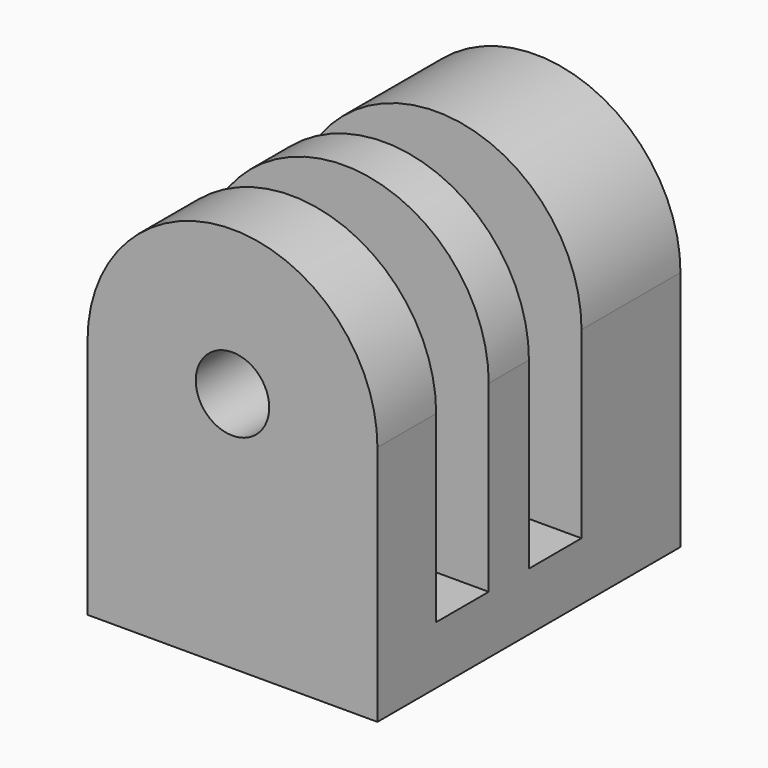
from build123d import *

# Parameters (mm, degrees)
BOX003_W                  = 15
BOX003_H                  = 3.4
BOX003_DEPTH              = 17
ARRAY_Y_COUNT             = 2
ARRAY_Y_PITCH             = 6
CYLINDER002_R             = 2.2
CYLINDER002_DEPTH         = 6
CYLINDER001_R             = 1.9
CYLINDER001_DEPTH         = 15
FUSION001_PLACEMENT_ANGLE = 90
CYLINDER_R                = 7.5
CYLINDER_DEPTH            = 19.6
BOX002_W                  = 15
BOX002_H                  = 19.6
BOX002_DEPTH              = 12.5


with BuildPart() as side_3_extract_cube_array:
    # Box003 → Box003 (new body)
    with BuildSketch(Plane(origin=(-7.5, -7.7, 3), x_dir=(1, 0, 0), z_dir=(0, 0, 1))):
        with Locations((7.5, 1.7)):
            Rectangle(BOX003_W, BOX003_H)
    extrude(amount=BOX003_DEPTH)

    # Array Y: side 3 extract cube array ×2


with BuildPart() as side_3_extract_cube_array_1:
    add(side_3_extract_cube_array.part)
    with Locations(*[(0, i * ARRAY_Y_PITCH, 0) for i in range(1, ARRAY_Y_COUNT)]):
        add(side_3_extract_cube_array.part)


with BuildPart() as side_3_extract_cube_array_2:
    # Array placement: moved
    add(side_3_extract_cube_array_1.part.moved(Location((0, 3, 0))))


with BuildPart() as insert_hole:
    # Cylinder002 → Cylinder002 (new body)
    with BuildSketch(Plane.XY):
        Circle(CYLINDER002_R)
    extrude(amount=CYLINDER002_DEPTH)


with BuildPart() as side_3_extract_fusion:
    # Cylinder001 → Cylinder001 (new body)
    with BuildSketch(Plane.XY.offset(6)):
        Circle(CYLINDER001_R)
    extrude(amount=CYLINDER001_DEPTH)

    # Fusion001: union insert hole
    add(insert_hole.part)


with BuildPart() as side_3_extract_fusion_1:
    # Fusion001 placement: moved
    add(side_3_extract_fusion.part.moved(Location((0, 11.1, 12.5))).rotate(Axis((0, 11.1, 12.5), (1, 0, 0)), FUSION001_PLACEMENT_ANGLE))

    # Fusion002: union side 3 extract cube array
    add(side_3_extract_cube_array_2.part)


with BuildPart() as outer_cylinder:
    # Cylinder → Cylinder (new body)
    with BuildSketch(Plane(origin=(0, 11.1, 12.5), x_dir=(1, 0, 0), z_dir=(0, -1, 0))):
        Circle(CYLINDER_R)
    extrude(amount=CYLINDER_DEPTH)


with BuildPart() as side_3_cut_clone:
    # Box002 → Box002 (new body)
    with BuildSketch(Plane(origin=(-7.5, -8.5, 0), x_dir=(1, 0, 0), z_dir=(0, 0, 1))):
        with Locations((7.5, 9.8)):
            Rectangle(BOX002_W, BOX002_H)
    extrude(amount=BOX002_DEPTH)

    # Fusion: union outer cylinder
    add(outer_cylinder.part)

    # Cut: cut side 3 extract fusion
    add(side_3_extract_fusion_1.part, mode=Mode.SUBTRACT)


solid = side_3_cut_clone.part
